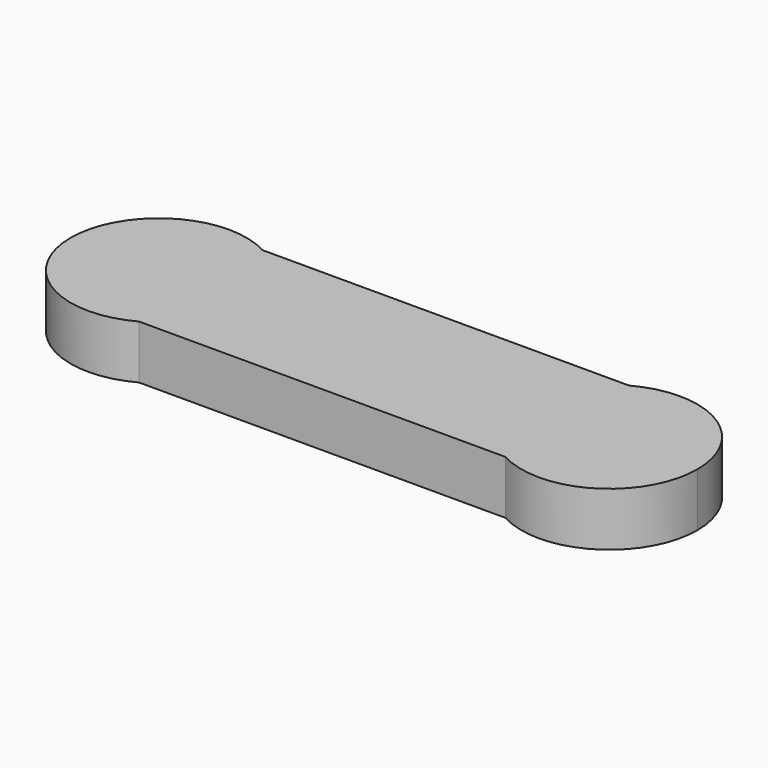
from build123d import *

# Parameters (mm, degrees)
F0_W     = 120
F0_H     = 61.9307779069
F0_R     = 30
F0_R_2   = 10
F0_R_3   = 21.5
F0_R_4   = 18.75
F0_R_5   = 6.6
F1_DEPTH = 25


with BuildPart() as f1:
    # F0 (on Top) → F1 (new body)
    with BuildSketch(Plane.XY):
        with Locations((105, -0.0346110465)):
            Rectangle(F0_W, F0_H)
        with BuildLine():
            ThreePointArc((242, 16.4924225025), (228.7386337537, 30.7386337537), (210, 36))
            ThreePointArc((210, 36), (200.4477229063, 34.7095664382), (191.5802557545, 30.9307779069))
            ThreePointArc((191.5802557545, 30.9307779069), (174.0000639573, -0.0678595955), (191.6969947823, -31))
            ThreePointArc((191.6969947823, -31), (200.5131670195, -34.7275107084), (210, -36))
            ThreePointArc((210, -36), (228.7386337537, -30.7386337537), (242, -16.4924225025))
            Line((242, -16.4924225025), (242, 16.4924225025))
        make_face()
        with Locations((210, 0)):
            Circle(F0_R, mode=Mode.SUBTRACT)
        with BuildLine():
            ThreePointArc((18.3030052177, -31), (31.2642622481, -17.8478543831), (36, 0))
            ThreePointArc((36, 0), (31.2978497092, 17.7888898917), (18.4197442455, 30.9307779069))
            ThreePointArc((18.4197442455, 30.9307779069), (9.5522770937, 34.7095664382), (0, 36))
            ThreePointArc((0, 36), (-18.7386337537, 30.7386337537), (-32, 16.4924225025))
            Line((-32, 16.4924225025), (-32, -16.4924225025))
            ThreePointArc((-32, -16.4924225025), (-18.7386337537, -30.7386337537), (0, -36))
            ThreePointArc((0, -36), (9.4868329805, -34.7275107084), (18.3030052177, -31))
        make_face()
        Circle(F0_R, mode=Mode.SUBTRACT)
        Circle(F0_R)
        Circle(F0_R_2, mode=Mode.SUBTRACT)
        with Locations((210, 0)):
            Circle(F0_R)
        with Locations((210, 0)):
            Circle(F0_R_3, mode=Mode.SUBTRACT)
        with Locations((210, 0)):
            Circle(F0_R_3)
        with Locations((210, 0)):
            Circle(F0_R_4, mode=Mode.SUBTRACT)
        with Locations((210, 0)):
            Circle(F0_R_4)
        with BuildLine():
            ThreePointArc((19.6214168703, 36), (23.4046464655, 33.6633706545), (26.9125802938, 30.9307779069))
            Line((26.9125802938, 30.9307779069), (34, 30.9307779069))
            ThreePointArc((34, 30.9307779069), (37, 33.9307779069), (40, 30.9307779069))
            Line((40, 30.9307779069), (45, 30.9307779069))
            Line((45, 30.9307779069), (165, 30.9307779069))
            Line((165, 30.9307779069), (170, 30.9307779069))
            ThreePointArc((170, 30.9307779069), (173, 33.9307779069), (176, 30.9307779069))
            Line((176, 30.9307779069), (183.0874197062, 30.9307779069))
            ThreePointArc((183.0874197062, 30.9307779069), (186.5953535345, 33.6633706545), (190.3785831296, 36))
            Line((190.3785831296, 36), (19.6214168703, 36))
        make_face()
        with BuildLine():
            Line((34, -31), (26.83281573, -31))
            ThreePointArc((26.83281573, -31), (23.361269906, -33.693487032), (19.6214168703, -36))
            Line((19.6214168703, -36), (190.3785831296, -36))
            ThreePointArc((190.3785831296, -36), (186.638730094, -33.693487032), (183.16718427, -31))
            Line((183.16718427, -31), (176, -31))
            ThreePointArc((176, -31), (173, -34), (170, -31))
            Line((170, -31), (165, -31))
            Line((165, -31), (45, -31))
            Line((45, -31), (40, -31))
            ThreePointArc((40, -31), (37, -34), (34, -31))
        make_face()
        with BuildLine():
            ThreePointArc((251, 0), (230.9346830441, 35.2525041074), (190.3785831296, 36))
            Line((190.3785831296, 36), (210, 36))
            ThreePointArc((210, 36), (228.7386337537, 30.7386337537), (242, 16.4924225025))
            ThreePointArc((242, 16.4924225025), (244.9857113691, 8.4852813742), (246, 0))
            ThreePointArc((246, 0), (244.9857113691, -8.4852813742), (242, -16.4924225025))
            ThreePointArc((242, -16.4924225025), (228.7386337537, -30.7386337537), (210, -36))
            Line((210, -36), (190.3785831296, -36))
            ThreePointArc((190.3785831296, -36), (230.9346830441, -35.2525041074), (251, 0))
        make_face()
        with BuildLine():
            ThreePointArc((-32, 16.4924225025), (-18.7386337537, 30.7386337537), (0, 36))
            Line((0, 36), (19.6214168703, 36))
            ThreePointArc((19.6214168703, 36), (-41, 0), (19.6214168703, -36))
            Line((19.6214168703, -36), (0, -36))
            ThreePointArc((0, -36), (-18.7386337537, -30.7386337537), (-32, -16.4924225025))
            ThreePointArc((-32, -16.4924225025), (-36, 0), (-32, 16.4924225025))
        make_face()
        with BuildLine():
            ThreePointArc((173, -17.6635217327), (169, 0), (173, 17.6635217327))
            Line((173, 17.6635217327), (173, 27.9307779069))
            ThreePointArc((173, 27.9307779069), (170.8786796564, 28.8094575634), (170, 30.9307779069))
            Line((170, 30.9307779069), (165, 30.9307779069))
            Line((165, 30.9307779069), (165, -31))
            Line((165, -31), (170, -31))
            ThreePointArc((170, -31), (170.8786796564, -28.8786796564), (173, -28))
            Line((173, -28), (173, -17.6635217327))
        make_face()
        with BuildLine():
            Line((37, 27.9307779069), (37, 17.6635217327))
            ThreePointArc((37, 17.6635217327), (39.9874980463, 9.0553851381), (41, 0))
            ThreePointArc((41, 0), (39.9874980463, -9.0553851381), (37, -17.6635217327))
            Line((37, -17.6635217327), (37, -28))
            ThreePointArc((37, -28), (39.1213203436, -28.8786796564), (40, -31))
            Line((40, -31), (45, -31))
            Line((45, -31), (45, 30.9307779069))
            Line((45, 30.9307779069), (40, 30.9307779069))
            ThreePointArc((40, 30.9307779069), (39.1213203436, 28.8094575634), (37, 27.9307779069))
        make_face()
        Circle(F0_R_2)
        Circle(F0_R_5, mode=Mode.SUBTRACT)
        with BuildLine():
            Line((191.5802557545, 30.9307779069), (183.0874197062, 30.9307779069))
            ThreePointArc((183.0874197062, 30.9307779069), (177.3624525806, 24.815126404), (173, 17.6635217327))
            Line((173, 17.6635217327), (173, -17.6635217327))
            ThreePointArc((173, -17.6635217327), (177.3944405945, -24.8571417474), (183.16718427, -31))
            Line((183.16718427, -31), (191.6969947823, -31))
            ThreePointArc((191.6969947823, -31), (174.0000639573, -0.0678595955), (191.5802557545, 30.9307779069))
        make_face()
        with BuildLine():
            ThreePointArc((18.4197442455, 30.9307779069), (31.2978497092, 17.7888898917), (36, 0))
            ThreePointArc((36, 0), (31.2642622481, -17.8478543831), (18.3030052177, -31))
            Line((18.3030052177, -31), (26.83281573, -31))
            ThreePointArc((26.83281573, -31), (32.6055594055, -24.8571417474), (37, -17.6635217327))
            Line((37, -17.6635217327), (37, 17.6635217327))
            ThreePointArc((37, 17.6635217327), (32.6375474194, 24.815126404), (26.9125802938, 30.9307779069))
            Line((26.9125802938, 30.9307779069), (18.4197442455, 30.9307779069))
        make_face()
        Circle(F0_R_5)
        with BuildLine():
            Line((173, -17.6635217327), (173, 17.6635217327))
            ThreePointArc((173, 17.6635217327), (169, 0), (173, -17.6635217327))
        make_face()
        with BuildLine():
            ThreePointArc((41, 0), (39.9874980463, 9.0553851381), (37, 17.6635217327))
            Line((37, 17.6635217327), (37, -17.6635217327))
            ThreePointArc((37, -17.6635217327), (39.9874980463, -9.0553851381), (41, 0))
        make_face()
        with BuildLine():
            Line((-32, -16.4924225025), (-32, 16.4924225025))
            ThreePointArc((-32, 16.4924225025), (-36, 0), (-32, -16.4924225025))
        make_face()
        with BuildLine():
            ThreePointArc((246, 0), (244.9857113691, 8.4852813742), (242, 16.4924225025))
            Line((242, 16.4924225025), (242, -16.4924225025))
            ThreePointArc((242, -16.4924225025), (244.9857113691, -8.4852813742), (246, 0))
        make_face()
        with BuildLine():
            Line((210, 36), (190.3785831296, 36))
            ThreePointArc((190.3785831296, 36), (186.5953535345, 33.6633706545), (183.0874197062, 30.9307779069))
            Line((183.0874197062, 30.9307779069), (191.5802557545, 30.9307779069))
            ThreePointArc((191.5802557545, 30.9307779069), (200.4477229063, 34.7095664382), (210, 36))
        make_face()
        with BuildLine():
            ThreePointArc((0, 36), (9.5522770937, 34.7095664382), (18.4197442455, 30.9307779069))
            Line((18.4197442455, 30.9307779069), (26.9125802938, 30.9307779069))
            ThreePointArc((26.9125802938, 30.9307779069), (23.4046464655, 33.6633706545), (19.6214168703, 36))
            Line((19.6214168703, 36), (0, 36))
        make_face()
        with BuildLine():
            Line((26.83281573, -31), (18.3030052177, -31))
            ThreePointArc((18.3030052177, -31), (9.4868329805, -34.7275107084), (0, -36))
            Line((0, -36), (19.6214168703, -36))
            ThreePointArc((19.6214168703, -36), (23.361269906, -33.693487032), (26.83281573, -31))
        make_face()
        with BuildLine():
            ThreePointArc((183.16718427, -31), (186.638730094, -33.693487032), (190.3785831296, -36))
            Line((190.3785831296, -36), (210, -36))
            ThreePointArc((210, -36), (200.5131670195, -34.7275107084), (191.6969947823, -31))
            Line((191.6969947823, -31), (183.16718427, -31))
        make_face()
        with BuildLine():
            ThreePointArc((37, -17.6635217327), (32.6055594055, -24.8571417474), (26.83281573, -31))
            Line((26.83281573, -31), (34, -31))
            ThreePointArc((34, -31), (34.8786796564, -28.8786796564), (37, -28))
            Line((37, -28), (37, -17.6635217327))
        make_face()
        with BuildLine():
            Line((176, -31), (183.16718427, -31))
            ThreePointArc((183.16718427, -31), (177.3944405945, -24.8571417474), (173, -17.6635217327))
            Line((173, -17.6635217327), (173, -28))
            ThreePointArc((173, -28), (175.1213203436, -28.8786796564), (176, -31))
        make_face()
        with BuildLine():
            Line((34, 30.9307779069), (26.9125802938, 30.9307779069))
            ThreePointArc((26.9125802938, 30.9307779069), (32.6375474194, 24.815126404), (37, 17.6635217327))
            Line((37, 17.6635217327), (37, 27.9307779069))
            ThreePointArc((37, 27.9307779069), (34.8786796564, 28.8094575634), (34, 30.9307779069))
        make_face()
        with BuildLine():
            ThreePointArc((173, 17.6635217327), (177.3624525806, 24.815126404), (183.0874197062, 30.9307779069))
            Line((183.0874197062, 30.9307779069), (176, 30.9307779069))
            ThreePointArc((176, 30.9307779069), (175.1213203436, 28.8094575634), (173, 27.9307779069))
            Line((173, 27.9307779069), (173, 17.6635217327))
        make_face()
        with BuildLine():
            Line((37, -31), (34, -31))
            ThreePointArc((34, -31), (37, -34), (40, -31))
            Line((40, -31), (37, -31))
        make_face()
        with BuildLine():
            ThreePointArc((170, -31), (173, -34), (176, -31))
            Line((176, -31), (173, -31))
            Line((173, -31), (170, -31))
        make_face()
        with BuildLine():
            ThreePointArc((40, 30.9307779069), (37, 33.9307779069), (34, 30.9307779069))
            Line((34, 30.9307779069), (37, 30.9307779069))
            Line((37, 30.9307779069), (40, 30.9307779069))
        make_face()
        with BuildLine():
            Line((173, 30.9307779069), (176, 30.9307779069))
            ThreePointArc((176, 30.9307779069), (173, 33.9307779069), (170, 30.9307779069))
            Line((170, 30.9307779069), (173, 30.9307779069))
        make_face()
        with BuildLine():
            Line((170, -31), (173, -31))
            Line((173, -31), (173, -28))
            ThreePointArc((173, -28), (170.8786796564, -28.8786796564), (170, -31))
        make_face()
        with BuildLine():
            Line((173, 27.9307779069), (173, 30.9307779069))
            Line((173, 30.9307779069), (170, 30.9307779069))
            ThreePointArc((170, 30.9307779069), (170.8786796564, 28.8094575634), (173, 27.9307779069))
        make_face()
        with BuildLine():
            Line((173, -31), (176, -31))
            ThreePointArc((176, -31), (175.1213203436, -28.8786796564), (173, -28))
            Line((173, -28), (173, -31))
        make_face()
        with BuildLine():
            Line((37, -28), (37, -31))
            Line((37, -31), (40, -31))
            ThreePointArc((40, -31), (39.1213203436, -28.8786796564), (37, -28))
        make_face()
        with BuildLine():
            ThreePointArc((37, -28), (34.8786796564, -28.8786796564), (34, -31))
            Line((34, -31), (37, -31))
            Line((37, -31), (37, -28))
        make_face()
        with BuildLine():
            Line((40, 30.9307779069), (37, 30.9307779069))
            Line((37, 30.9307779069), (37, 27.9307779069))
            ThreePointArc((37, 27.9307779069), (39.1213203436, 28.8094575634), (40, 30.9307779069))
        make_face()
        with BuildLine():
            ThreePointArc((173, 27.9307779069), (175.1213203436, 28.8094575634), (176, 30.9307779069))
            Line((176, 30.9307779069), (173, 30.9307779069))
            Line((173, 30.9307779069), (173, 27.9307779069))
        make_face()
        with BuildLine():
            Line((37, 30.9307779069), (34, 30.9307779069))
            ThreePointArc((34, 30.9307779069), (34.8786796564, 28.8094575634), (37, 27.9307779069))
            Line((37, 27.9307779069), (37, 30.9307779069))
        make_face()
    extrude(amount=F1_DEPTH)


solid = f1.part
